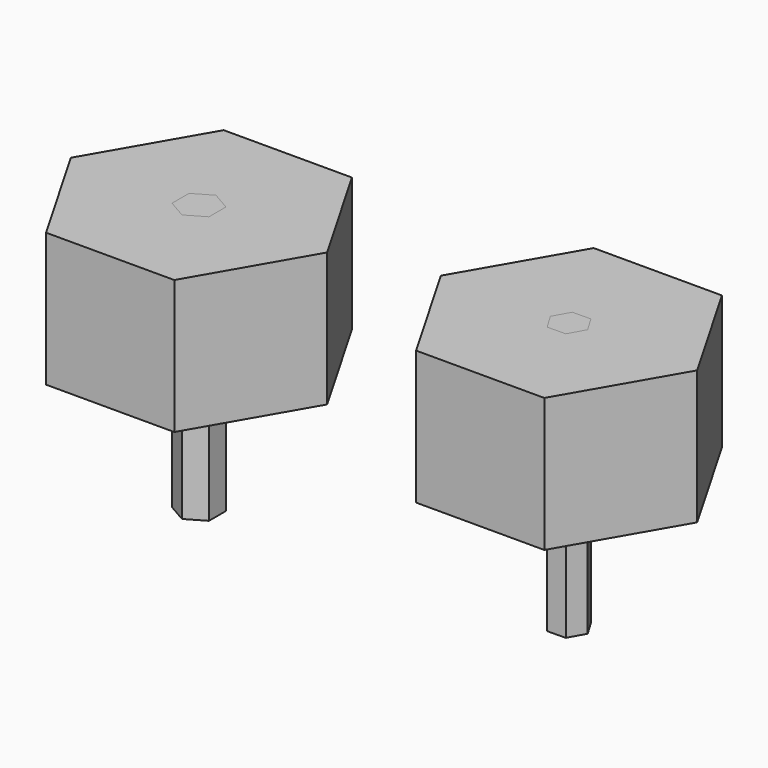
from build123d import *

# Parameters (mm, degrees)
F1_DEPTH      = 6.35
F2_DEPTH      = 6.35
F2_DEPTH_BACK = 6.35


with BuildPart() as f1:
    # F0 (on Top) → F1 (new body)
    with BuildSketch(Plane.XY):
        Polygon((-6.064381, -5.267384), (0.01787, -5.267384), (3.058996, 0), (0.01787, 5.267384), (-6.064381, 5.267384), (-9.105507, 0), align=None)
        Polygon((-3.023256, -1.010363), (-3.898256, -0.505181), (-3.898256, 0.505181), (-3.023256, 1.010363), (-2.148256, 0.505181), (-2.148256, -0.505181), align=None, mode=Mode.SUBTRACT)
        Polygon((10.552234, -4.091467), (16.634486, -4.091467), (19.675611, 1.175917), (16.634486, 6.443302), (10.552234, 6.443302), (7.511108, 1.175917), align=None)
        Polygon((12.718448, 1.163476), (13.145129, 1.927392), (14.020041, 1.939834), (14.468271, 1.188359), (14.04159, 0.424442), (13.166679, 0.412001), align=None, mode=Mode.SUBTRACT)
    extrude(amount=F1_DEPTH)


with BuildPart() as f2:
    # F0 (on Top) → F2 (new body, two sides)
    with BuildSketch(Plane.XY) as f2_sk:
        Polygon((14.020041, 1.939834), (13.145129, 1.927392), (12.718448, 1.163476), (13.166679, 0.412001), (14.04159, 0.424442), (14.468271, 1.188359), align=None)
        Polygon((-3.898256, 0.505181), (-3.898256, -0.505181), (-3.023256, -1.010363), (-2.148256, -0.505181), (-2.148256, 0.505181), (-3.023256, 1.010363), align=None)
    extrude(amount=F2_DEPTH)
    extrude(f2_sk.sketch, amount=-F2_DEPTH_BACK)


solid = Compound([f1.part, f2.part])
